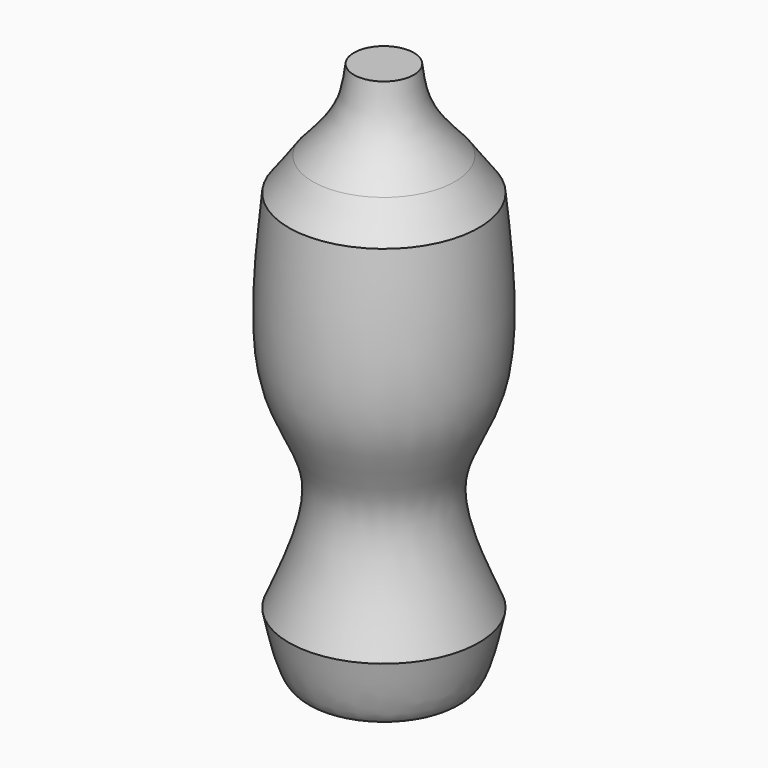
from build123d import *


with BuildPart() as f1:
    # F0 (on Front) → F1 (revolve)
    with BuildSketch(Plane.XZ):
        with BuildLine():
            Line((-10.4778399691, 73.5280942172), (-20.1095195953, 73.5280942172))
            add(Edge.make_bspline(
                [(-33.3280973136, 47.6186275482), (-29.2957141693, 52.0869004821), (-21.785416848, 60.4090407761), (-20.6399632271, 69.3757404007), (-20.1095195953, 73.5280942172)],
                knots=[0, 0, 0, 0, 0.5369139159, 1, 1, 1, 1], degree=3))
            Line((-33.3280973136, 47.6186275482), (-41.0360410072, 37.0789542794))
            add(Edge.make_bspline(
                [(-41.0360410072, -80.2997369319), (-35.4982270252, -67.3465920244), (-25.15374498, -43.1504786556), (-46.4877352533, -17.5605307683), (-43.0381327925, 17.0130336269), (-41.0360410072, 37.0789542794)],
                knots=[0, 0, 0, 0, 0.3258933859, 0.6087597543, 1, 1, 1, 1], degree=3))
            add(Edge.make_bspline(
                [(-41.0360410072, -80.2997369319), (-38.7361656209, -91.0838322906), (-33.9486901013, -113.5322626873), (-17.612360317, -76.7827793923), (-12.1979729547, -79.4517984052), (-10.4778399691, -80.2997369319)],
                knots=[0, 0, 0, 0, 0.3868092232, 0.8051913151, 1, 1, 1, 1], degree=3))
            Line((-10.4778399691, -80.2997369319), (-10.4778399691, 73.5280942172))
        make_face()
    revolve(axis=Axis((-10.4778399691, 0, -18.9673649147), (0, 0, -1)))


solid = f1.part
